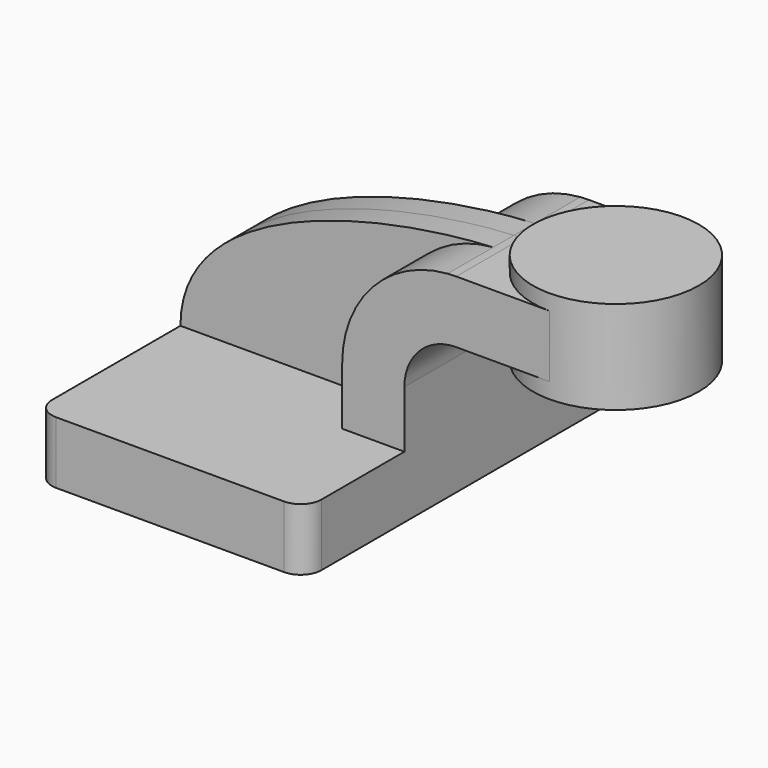
from build123d import *

# Parameters (mm, degrees)
F1_DEPTH = 63.5
F0_W     = 25.4
F0_H     = 19.05
F2_DEPTH = 25.4
F3_DEPTH = 7.9375
F4_R     = 6.35


with BuildPart() as f1:
    # F0 (on Front) → F1 (new body, symmetric)
    with BuildSketch(Plane.XZ):
        Polygon((22.225, 9.525), (-41.275, 9.525), (-41.275, -9.525), (41.275, -9.525), (41.275, 9.525), align=None)
    extrude(amount=F1_DEPTH, both=True)

    # F0 (on Front) → F2 (join, symmetric)
    with BuildSketch(Plane.XZ):
        with BuildLine():
            Line((22.225, 27.0002), (22.225, 9.525))
            Line((22.225, 9.525), (41.275, 9.525))
            Line((41.275, 9.525), (41.275, 27.0002))
            ThreePointArc((41.275, 27.0002), (45.9246798487, 38.2255201513), (57.15, 42.8752))
            Line((57.15, 42.8752), (60.325, 42.8752))
            Line((60.325, 42.8752), (60.325, 61.9252))
            Line((60.325, 61.9252), (57.15, 61.9252))
            add(Edge.make_bspline(
                [(54.4984090982, 61.8243969138), (55.404669208, 61.8669613905), (56.2891532097, 61.9004870102), (57.15, 61.9252)],
                knots=[108.5444576437, 108.5444576437, 108.5444576437, 108.5444576437, 111.5045361635, 111.5045361635, 111.5045361635, 111.5045361635], degree=3))
            ThreePointArc((54.4984090982, 61.8243969138), (31.5339655953, 50.7399221209), (22.225, 27.0002))
        make_face()
        with Locations((73.025, 52.4002)):
            Rectangle(F0_W, F0_H)
    extrude(amount=F2_DEPTH, both=True)

    # F0 (on Front) → F3 (join, symmetric)
    with BuildSketch(Plane.XZ):
        with BuildLine():
            add(Edge.make_bspline(
                [(-41.275, 9.525), (-41.2469300754, 46.5486774927), (21.2663473688, 60.2635808731), (54.4984090982, 61.8243969138)],
                knots=[0, 0, 0, 0, 108.5444576437, 108.5444576437, 108.5444576437, 108.5444576437], degree=3))
            Line((-41.275, 9.525), (22.225, 9.525))
            Line((22.225, 9.525), (22.225, 27.0002))
            ThreePointArc((22.225, 27.0002), (31.5339655953, 50.7399221209), (54.4984090982, 61.8243969138))
        make_face()
    extrude(amount=F3_DEPTH, both=True)

    # F4
    f4_edges = [f1.edges().sort_by_distance(p)[0] for p in [
        (41.275, -63.5, 0),
        (-41.275, -63.5, 0),
        (41.275, 63.5, 0),
        (-41.275, 63.5, 0),
    ]]
    fillet(f4_edges, radius=F4_R)

    # F0 (on Front) → F5 (revolve)
    with BuildSketch(Plane.XZ):
        Polygon((85.725, 66.675), (85.725, 61.9252), (85.725, 42.8752), (85.725, 38.1), (111.125, 38.1), (111.125, 66.675), align=None)
    revolve(axis=Axis((85.725, 0, 52.3875), (0, 0, -1)))


solid = f1.part
